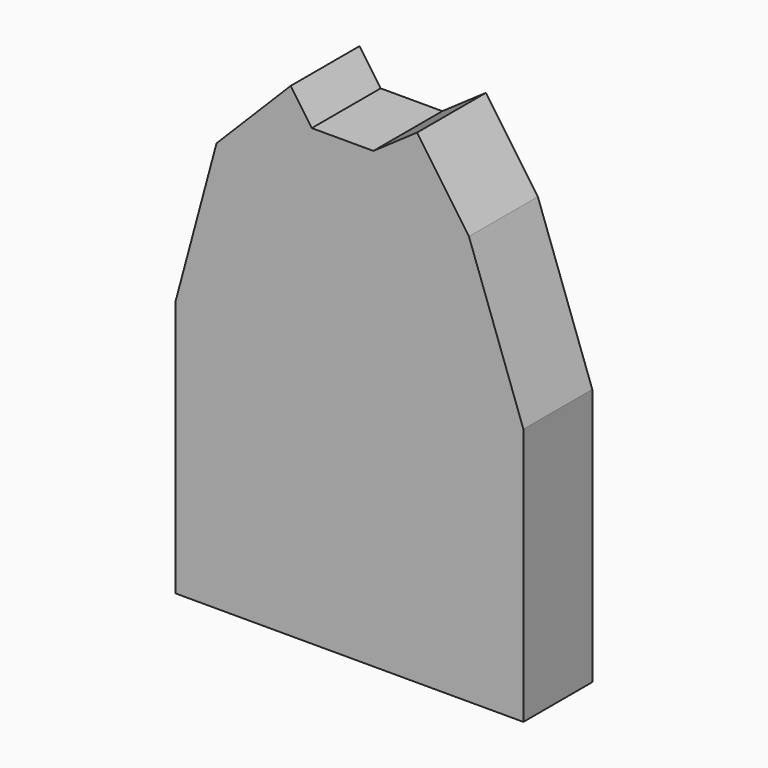
from build123d import *

# Parameters (mm, degrees)
F1_DEPTH = 25


with BuildPart() as f1:
    # F0 (on Front) → F1 (new body)
    with BuildSketch(Plane.XZ):
        Polygon((0, 0), (-48.926342, -74.815616), (51.997956, -74.815616), align=None)
        Polygon((-48.926342, 0), (-48.926342, -74.815616), (0, 0), align=None)
        Polygon((-37.078708, 44.099528), (0, 0), (-15.557691, 65.769808), align=None)
        Polygon((-15.557691, 65.769808), (0, 0), (21.13994, 65.769808), (8.463154, 56.959255), (-9.434227, 56.959255), align=None)
        Polygon((21.13994, 65.769808), (0, 0), (36.201105, 44.099528), align=None)
        Polygon((36.201105, 44.099528), (0, 0), (51.997956, 0), align=None)
        Polygon((0, 0), (51.997956, -74.815616), (51.997956, 0), align=None)
        Polygon((-48.926342, 0), (0, 0), (-37.078708, 44.099528), align=None)
    extrude(amount=F1_DEPTH)


solid = f1.part
